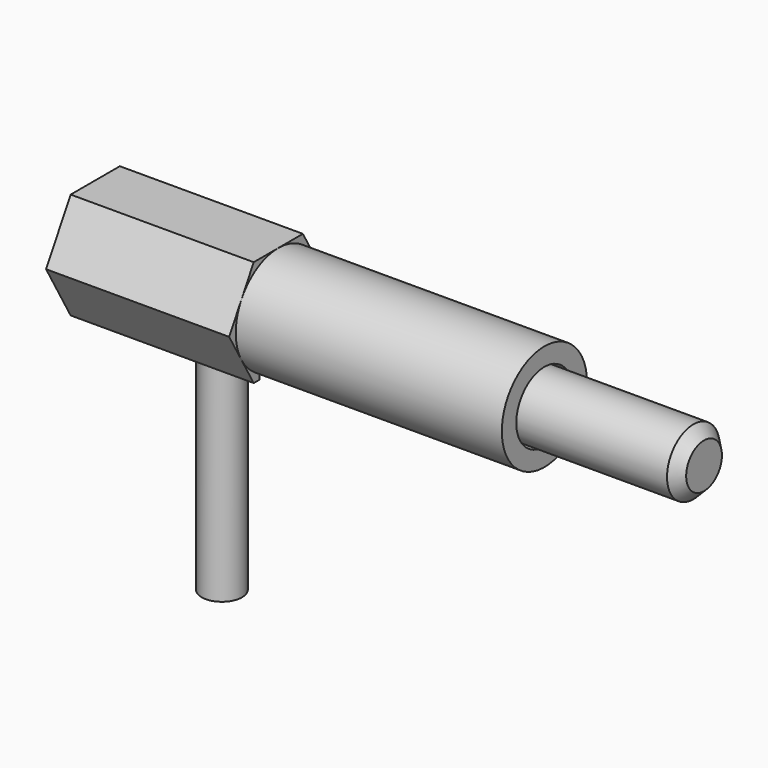
from build123d import *

# Parameters (mm, degrees)
F0_R       = 6.35
F1_DEPTH   = 31.75
F2_R       = 4.191
F3_DEPTH   = 31.751
F5_R       = 3.937
F6_DEPTH   = 31.75
F8_DEPTH   = 21.844
F9_R       = 2.413
F10_DEPTH  = 20.955
F10_FACE_R = 2.413
F13_SIZE   = 1.27


with BuildPart() as f1:
    # F0 (on Right) → F1 (new body)
    with BuildSketch(Plane.YZ):
        Circle(F0_R)
    extrude(amount=F1_DEPTH)

    # F2 (on face) → F3 (cut, through all)
    with BuildSketch(Plane.YZ.offset(31.75)):
        Circle(F2_R)
    extrude(amount=-F3_DEPTH, mode=Mode.SUBTRACT)

    # F7 (on Right) → F8 (join)
    with BuildSketch(Plane.YZ):
        with BuildLine():
            Line((3.666174, 6.35), (-3.666174, 6.35))
            Line((-3.666174, 6.35), (-7.332348, 0))
            Line((-7.332348, 0), (-3.666174, -6.35))
            Line((-3.666174, -6.35), (-2.794, -6.35))
            Line((-2.794, -6.35), (-2.794, 0))
            ThreePointArc((-2.794, 0), (0, 2.794), (2.794, 0))
            Line((2.794, 0), (2.794, -6.35))
            Line((2.794, -6.35), (3.666174, -6.35))
            Line((3.666174, -6.35), (7.332348, 0))
            Line((7.332348, 0), (3.666174, 6.35))
        make_face()
    extrude(amount=-F8_DEPTH)


with BuildPart() as f6:
    # F5 (on offset) → F6 (new body)
    with BuildSketch(Plane.YZ.offset(50.8)):
        Circle(F5_R)
    extrude(amount=-F6_DEPTH)

    # F9 (on face) → F10 (join)
    with BuildSketch(Plane(origin=(19.05, 0, 0), x_dir=(0, -1, 0), z_dir=(-1, 0, 0))):
        Circle(F9_R)
    extrude(amount=F10_DEPTH)

    # F12: sweep along a path in F11
    with BuildLine(Plane.XZ) as f12_path:
        ThreePointArc((-1.905, 0), (-5.317497, -1.413503), (-6.731, -4.826))
        Line((-6.731, -4.826), (-6.731, -31.75))
    # F10_face (on face) → F12 (sweep)
    with BuildSketch(Plane(origin=(-1.905, 0, 0), x_dir=(0, -1, 0), z_dir=(-1, 0, 0))):
        Circle(F10_FACE_R)
    sweep(path=f12_path.line)

    # F13
    f13_edges = [f6.edges().sort_by_distance(p)[0] for p in [
        (50.8, -3.937, 0),
    ]]
    chamfer(f13_edges, length=F13_SIZE)


solid = Compound([f1.part, f6.part])
